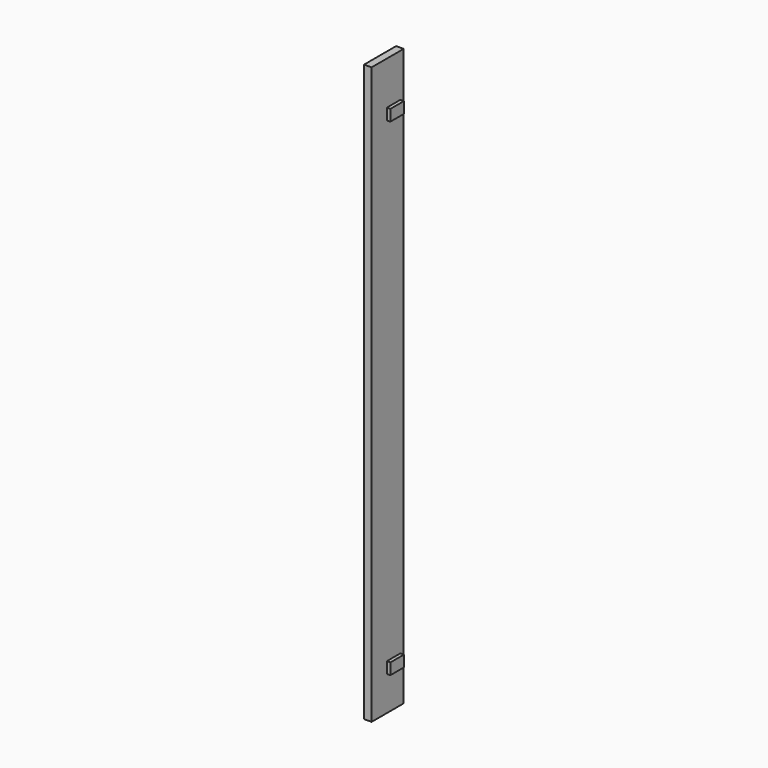
from build123d import *

# Parameters (mm, degrees)
SKETCH_W     = 160
SKETCH_H     = 2300
PAD_DEPTH    = 30
PAD001_DEPTH = 11.45
SKETCH004_W  = 68
SKETCH004_H  = 45
PAD004_DEPTH = 13.945


with BuildPart() as part:
    # Sketch → Pad (new body)
    with BuildSketch(Plane.YZ):
        with Locations((-911.017, 830.848)):
            Rectangle(SKETCH_W, SKETCH_H)
    extrude(amount=PAD_DEPTH)

    # Sketch001 (on Face5 of Pad) → Pad001 (join)
    with BuildSketch(Plane(origin=(0, 0, 0), x_dir=(0, 1, 0), z_dir=(-1, 0, 0))):
        Polygon((-959.089896, 236.194146), (-863.09, 236.053045), (-863.159081, 189.053045), (-959.158977, 189.194146), align=None)
        Polygon((-959.09, -1851.352361), (-863.09, -1851.346955), (-863.087354, -1898.346955), (-959.087354, -1898.352361), align=None)
    extrude(amount=PAD001_DEPTH)

    # Sketch004 (on Face5 of Pad001) → Pad004 (join)
    with BuildSketch(Plane.YZ.offset(30)):
        with Locations((-881.01, -159.045)):
            Rectangle(SKETCH004_W, SKETCH004_H)
        with Locations((-881.01, 1785.955)):
            Rectangle(SKETCH004_W, SKETCH004_H)
    extrude(amount=PAD004_DEPTH)


with BuildPart() as part_1:
    # Body placement: moved
    add(part.part.moved(Location((103.004971, 1.762416, 16.745678))))


solid = part_1.part
